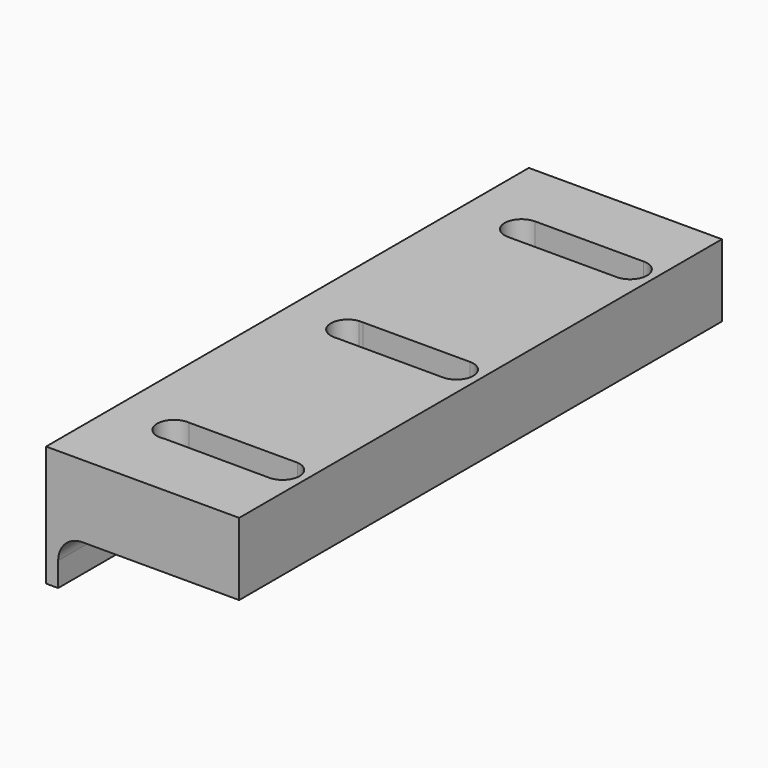
from build123d import *

# Parameters (mm, degrees)
F1_DEPTH = 250
F4_DEPTH = 10
F6_DEPTH = 108


with BuildPart() as f1:
    # F0 (on Front) → F1 (new body)
    with BuildSketch(Plane.XZ):
        with BuildLine():
            Line((-40, 25), (-40, -25))
            Line((-40, -25), (-35, -25))
            Line((-35, -25), (-35, -15))
            ThreePointArc((-35, -15), (-32.0710678119, -7.9289321881), (-25, -5))
            Line((-25, -5), (40, -5))
            Line((40, -5), (40, 25))
            Line((40, 25), (-40, 25))
        make_face()
    extrude(amount=F1_DEPTH)

    # F3 (on offset) → F4 (cut)
    with BuildSketch(Plane.XY.offset(25)):
        with BuildLine():
            Line((-14.2098601364, -131.9552626835), (29.9929159209, -131.9999964154))
            ThreePointArc((29.9929159209, -131.9999964154), (36.9999994254, -125.0028362987), (29.9985885173, -118.0000001423))
            ThreePointArc((29.9985885173, -118.0000001423), (29.9955916852, -118.0000013881), (29.992594854, -118.0000039169))
            Line((29.992594854, -118.0000039169), (-14.1923724524, -118.0467462477))
            Line((-14.1923724524, -118.0467462477), (-15.82233712, -118.0484705524))
            ThreePointArc((-15.82233712, -118.0484705524), (-21.9534147014, -125.8062406526), (-14.2098601364, -131.9552626835))
        make_face()
        with BuildLine():
            Line((-13.3595939823, -221.8050766415), (29.9685203418, -221.9999292162))
            ThreePointArc((29.9685203418, -221.9999292162), (29.9807181236, -221.9999734435), (29.9929159639, -221.9999964155))
            ThreePointArc((29.9929159639, -221.9999964155), (36.9921369062, -215.3316948665), (30.6555919845, -208.0307676786))
            Line((30.6555919845, -208.0307676786), (29.3444080155, -208.0307676786))
            Line((29.3444080155, -208.0307676786), (-14.3444080155, -208.0307676786))
            ThreePointArc((-14.3444080155, -208.0307676786), (-21.9821772076, -215.4992008031), (-13.3595939823, -221.8050766415))
        make_face()
        with BuildLine():
            Line((-14.6451076001, -41.9909978819), (29.9985885167, -41.9999998577))
            ThreePointArc((29.9985885167, -41.9999998577), (36.9999999657, -35.0006925131), (29.9999735429, -28))
            Line((29.9999735429, -28), (-14.9512298512, -28.0001698969))
            Line((-14.9512298512, -28.0001698969), (-15.0488230617, -28.0001702657))
            ThreePointArc((-15.0488230617, -28.0001702657), (-21.9970875338, -35.2019060274), (-14.6451076001, -41.9909978819))
        make_face()
    extrude(amount=-F4_DEPTH, mode=Mode.SUBTRACT)

    # F5 (on offset) → F6 (cut)
    with BuildSketch(Plane.XY.offset(25)):
        with BuildLine():
            Line((-14.9462072807, -218.9996382766), (29.9999678083, -218.9999999999))
            ThreePointArc((29.9999678083, -218.9999999999), (33.989222508, -214.7065655416), (29.4146804818, -211.0430566012))
            Line((29.4146804818, -211.0430566012), (-14.4146804818, -211.0430566012))
            ThreePointArc((-14.4146804818, -211.0430566012), (-18.9911043713, -214.7333806128), (-14.9462072807, -218.9996382766))
        make_face()
        with BuildLine():
            Line((-14.8239530385, -128.9961240555), (29.8239530385, -128.9961240555))
            Line((29.8239530385, -128.9961240555), (30.1760469615, -128.9961240555))
            ThreePointArc((30.1760469615, -128.9961240555), (33.9805586423, -125.3938945231), (30.9558331647, -121.1158806711))
            Line((30.9558331647, -121.1158806711), (29.0441668353, -121.1158806711))
            Line((29.0441668353, -121.1158806711), (-14.0441668353, -121.1158806711))
            ThreePointArc((-14.0441668353, -121.1158806711), (-18.9805586423, -124.6061054769), (-14.8239530385, -128.9961240555))
        make_face()
        with BuildLine():
            Line((-14.342635605, -38.9456142807), (29.9950937795, -38.9999969911))
            ThreePointArc((29.9950937795, -38.9999969911), (33.9999993449, -35.0022892167), (29.999672212, -31.0000000134))
            Line((29.999672212, -31.0000000134), (-14.8286087531, -31.0036735568))
            ThreePointArc((-14.8286087531, -31.0036735568), (-18.9778854783, -34.5799677135), (-15.6670414367, -38.9439898227))
            Line((-15.6670414367, -38.9439898227), (-14.342635605, -38.9456142807))
        make_face()
    extrude(amount=-F6_DEPTH, mode=Mode.SUBTRACT)


solid = f1.part
